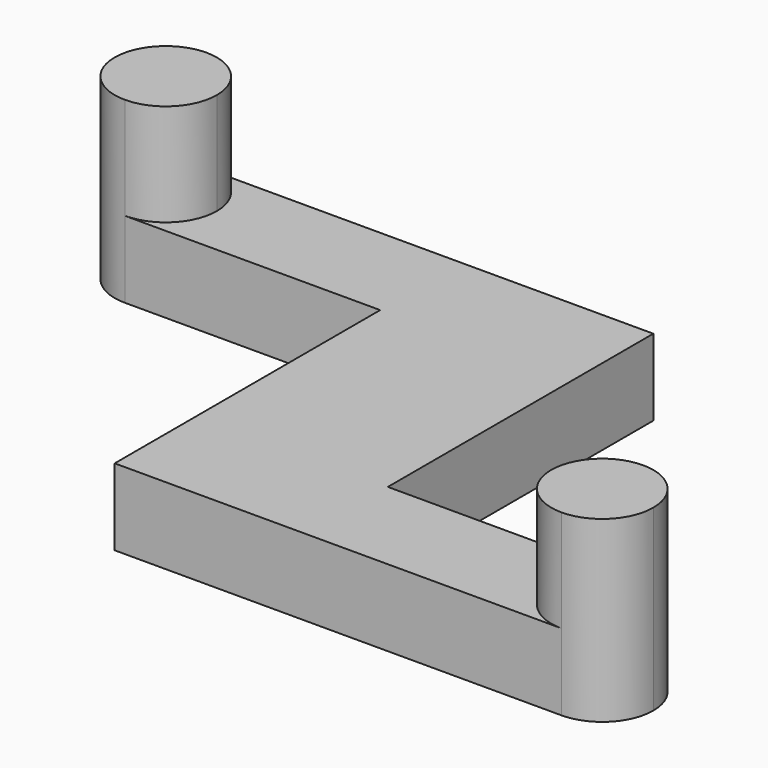
from build123d import *

# Parameters (mm, degrees)
F1_DEPTH = 3
F2_DEPTH = 7


with BuildPart() as f1:
    # F0 (on Top) → F1 (new body)
    with BuildSketch(Plane.XY):
        with BuildLine():
            Line((-13.75, 4.5), (-13.75, 8.5))
            ThreePointArc((-13.75, 8.5), (-15.75, 6.5), (-13.75, 4.5))
        make_face()
        with BuildLine():
            Line((-3.75, 4.5), (-3.75, 8.5))
            Line((-3.75, 8.5), (-13.75, 8.5))
            ThreePointArc((-13.75, 8.5), (-12.335786, 7.914214), (-11.75, 6.5))
            ThreePointArc((-11.75, 6.5), (-12.335786, 5.085786), (-13.75, 4.5))
            Line((-13.75, 4.5), (-3.75, 4.5))
        make_face()
        Polygon((3.75, -4.5), (3.75, 8.5), (-3.75, 8.5), (-3.75, 4.5), (-3.75, -8.5), (3.75, -8.5), align=None)
        with BuildLine():
            Line((13.75, -4.5), (3.75, -4.5))
            Line((3.75, -4.5), (3.75, -8.5))
            Line((3.75, -8.5), (13.75, -8.5))
            ThreePointArc((13.75, -8.5), (11.75, -6.5), (13.75, -4.5))
        make_face()
        with BuildLine():
            ThreePointArc((15.75, -6.5), (15.164214, -5.085786), (13.75, -4.5))
            Line((13.75, -4.5), (13.75, -8.5))
            ThreePointArc((13.75, -8.5), (15.164214, -7.914214), (15.75, -6.5))
        make_face()
        with BuildLine():
            Line((13.75, -4.5), (3.75, -4.5))
            Line((3.75, -4.5), (3.75, -8.5))
            Line((3.75, -8.5), (13.75, -8.5))
            ThreePointArc((13.75, -8.5), (11.75, -6.5), (13.75, -4.5))
        make_face()
        with BuildLine():
            Line((-3.75, 4.5), (-3.75, 8.5))
            Line((-3.75, 8.5), (-13.75, 8.5))
            ThreePointArc((-13.75, 8.5), (-12.335786, 7.914214), (-11.75, 6.5))
            ThreePointArc((-11.75, 6.5), (-12.335786, 5.085786), (-13.75, 4.5))
            Line((-13.75, 4.5), (-3.75, 4.5))
        make_face()
        with BuildLine():
            ThreePointArc((15.75, -6.5), (15.164214, -5.085786), (13.75, -4.5))
            Line((13.75, -4.5), (13.75, -8.5))
            ThreePointArc((13.75, -8.5), (15.164214, -7.914214), (15.75, -6.5))
        make_face()
        with BuildLine():
            Line((13.75, -8.5), (13.75, -4.5))
            ThreePointArc((13.75, -4.5), (11.75, -6.5), (13.75, -8.5))
        make_face()
        with BuildLine():
            Line((-13.75, 4.5), (-13.75, 8.5))
            ThreePointArc((-13.75, 8.5), (-15.75, 6.5), (-13.75, 4.5))
        make_face()
        with BuildLine():
            ThreePointArc((-11.75, 6.5), (-12.335786, 7.914214), (-13.75, 8.5))
            Line((-13.75, 8.5), (-13.75, 4.5))
            ThreePointArc((-13.75, 4.5), (-12.335786, 5.085786), (-11.75, 6.5))
        make_face()
    extrude(amount=F1_DEPTH)

    # F0 (on Top) → F2 (join)
    with BuildSketch(Plane.XY):
        with BuildLine():
            ThreePointArc((15.75, -6.5), (15.164214, -5.085786), (13.75, -4.5))
            Line((13.75, -4.5), (13.75, -8.5))
            ThreePointArc((13.75, -8.5), (15.164214, -7.914214), (15.75, -6.5))
        make_face()
        with BuildLine():
            Line((13.75, -8.5), (13.75, -4.5))
            ThreePointArc((13.75, -4.5), (11.75, -6.5), (13.75, -8.5))
        make_face()
        with BuildLine():
            ThreePointArc((-11.75, 6.5), (-12.335786, 7.914214), (-13.75, 8.5))
            Line((-13.75, 8.5), (-13.75, 4.5))
            ThreePointArc((-13.75, 4.5), (-12.335786, 5.085786), (-11.75, 6.5))
        make_face()
        with BuildLine():
            Line((-13.75, 4.5), (-13.75, 8.5))
            ThreePointArc((-13.75, 8.5), (-15.75, 6.5), (-13.75, 4.5))
        make_face()
    extrude(amount=F2_DEPTH)


solid = f1.part
